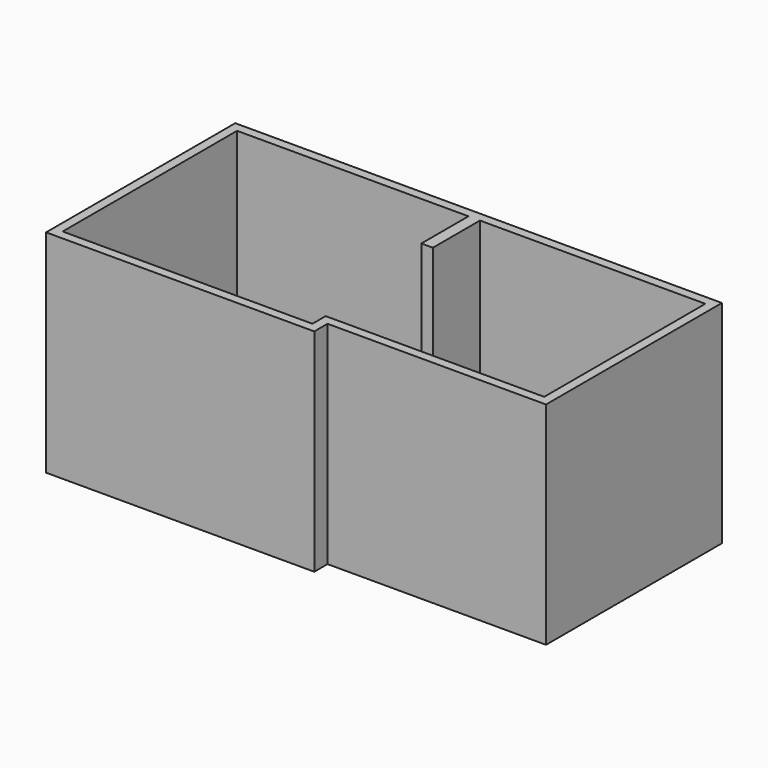
from build123d import *

# Parameters (mm, degrees)
F1_DEPTH = 2300


with BuildPart() as f1:
    # F0 (on Top) → F1 (new body)
    with BuildSketch(Plane.XY):
        Polygon((2815, -100.000001), (2815, 79.999999), (5190.000001, 79.999999), (5190.000001, 2470.000001), (2610.000001, 2470.000001), (-100.000001, 2470.000001), (-100.000001, -100.000001), (2515, -100.000001), align=None)
        Polygon((2715, 0), (0, 0), (0, 2370), (2515, 2370), (2515, 1730), (2640, 1730), (2640, 2370), (5090, 2370), (5090, 180), (2715, 180), align=None, mode=Mode.SUBTRACT)
    extrude(amount=F1_DEPTH)


solid = f1.part
